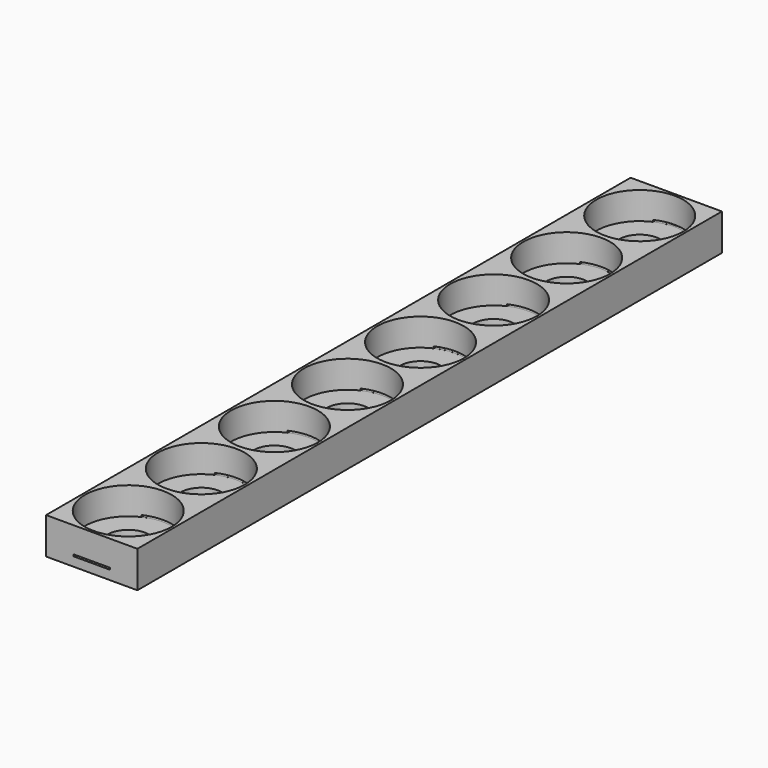
from build123d import *

# Parameters (mm, degrees)
F0_R     = 9.5
F0_R_2   = 4.5
F1_DEPTH = 2
F0_W     = 20
F0_H     = 20
F2_DEPTH = 8
F3_W     = 8
F3_H     = 0.4
F4_DEPTH = 160.001


with BuildPart() as f1:
    # F0 (on Top) → F1 (new body)
    with BuildSketch(Plane.XY):
        Circle(F0_R)
        Circle(F0_R_2, mode=Mode.SUBTRACT)
        with Locations((0, 20)):
            Circle(F0_R)
        with Locations((0, 20)):
            Circle(F0_R_2, mode=Mode.SUBTRACT)
        with Locations((0, 40)):
            Circle(F0_R)
        with Locations((0, 40)):
            Circle(F0_R_2, mode=Mode.SUBTRACT)
        with Locations((0, 60)):
            Circle(F0_R)
        with Locations((0, 60)):
            Circle(F0_R_2, mode=Mode.SUBTRACT)
        with Locations((0, 80)):
            Circle(F0_R)
        with Locations((0, 80)):
            Circle(F0_R_2, mode=Mode.SUBTRACT)
        with Locations((0, 100)):
            Circle(F0_R)
        with Locations((0, 100)):
            Circle(F0_R_2, mode=Mode.SUBTRACT)
        with Locations((0, 120)):
            Circle(F0_R)
        with Locations((0, 120)):
            Circle(F0_R_2, mode=Mode.SUBTRACT)
        with Locations((0, 140)):
            Circle(F0_R)
        with Locations((0, 140)):
            Circle(F0_R_2, mode=Mode.SUBTRACT)
    extrude(amount=F1_DEPTH)


with BuildPart() as f2:
    # F0 (on Top) → F2 (new body)
    with BuildSketch(Plane.XY):
        Rectangle(F0_W, F0_H)
        Circle(F0_R, mode=Mode.SUBTRACT)
        with Locations((0, 20)):
            Rectangle(F0_W, F0_H)
        with Locations((0, 20)):
            Circle(F0_R, mode=Mode.SUBTRACT)
        with Locations((0, 40)):
            Rectangle(F0_W, F0_H)
        with Locations((0, 40)):
            Circle(F0_R, mode=Mode.SUBTRACT)
        with Locations((0, 60)):
            Rectangle(F0_W, F0_H)
        with Locations((0, 60)):
            Circle(F0_R, mode=Mode.SUBTRACT)
        with Locations((0, 80)):
            Rectangle(F0_W, F0_H)
        with Locations((0, 80)):
            Circle(F0_R, mode=Mode.SUBTRACT)
        with Locations((0, 100)):
            Rectangle(F0_W, F0_H)
        with Locations((0, 100)):
            Circle(F0_R, mode=Mode.SUBTRACT)
        with Locations((0, 120)):
            Rectangle(F0_W, F0_H)
        with Locations((0, 120)):
            Circle(F0_R, mode=Mode.SUBTRACT)
        with Locations((0, 140)):
            Rectangle(F0_W, F0_H)
        with Locations((0, 140)):
            Circle(F0_R, mode=Mode.SUBTRACT)
    extrude(amount=F2_DEPTH)

    # F3 (on face) → F4 (cut, through all)
    with BuildSketch(Plane.XZ.offset(10)):
        with Locations((0, 2.2)):
            Rectangle(F3_W, F3_H)
    extrude(amount=-F4_DEPTH, mode=Mode.SUBTRACT)


solid = Compound([f1.part, f2.part])
